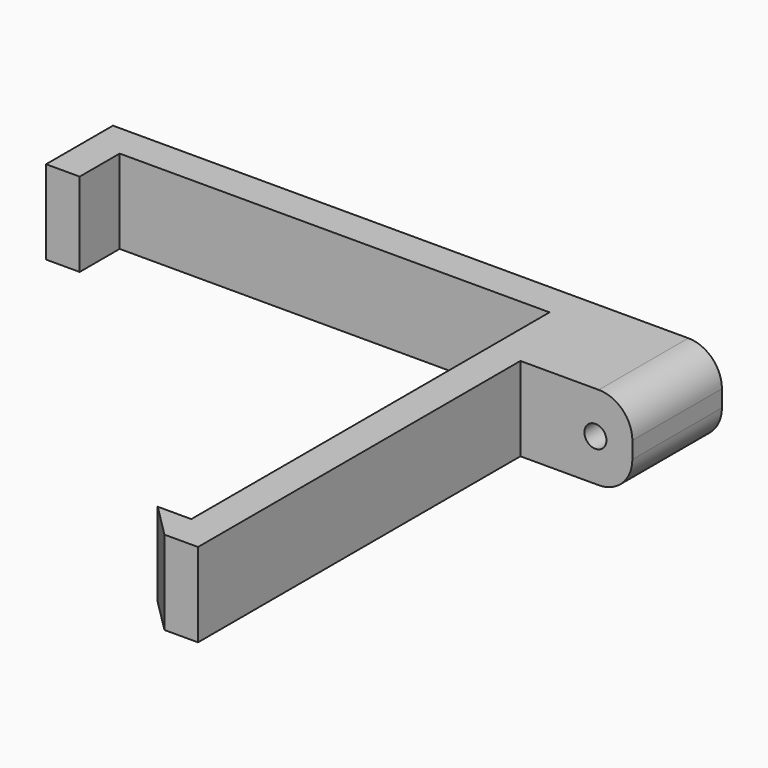
from build123d import *

# Parameters (mm, degrees)
F0_W     = 12.7
F0_H     = 12.7
F1_DEPTH = 4.7625
F2_R     = 3.81
F3_R     = 1.25
F4_DEPTH = 58.421


with BuildPart() as f1:
    # F0 (on Top) → F1 (new body, symmetric)
    with BuildSketch(Plane.XY):
        Polygon((-48.768, 0), (0, 0), (0, -50.8), (3.81, -50.8), (3.81, -8.89), (3.81, 3.81), (-52.578, 3.81), (-52.578, -5.671398), (-48.768, -5.671398), align=None)
        Polygon((3.81, -50.8), (0, -50.8), (-3.81, -50.8), (0, -54.61), (3.81, -54.61), align=None)
        with Locations((10.16, -2.54)):
            Rectangle(F0_W, F0_H)
    extrude(amount=F1_DEPTH, both=True)

    # F2
    f2_edges = [f1.edges().sort_by_distance(p)[0] for p in [
        (16.51, -2.54, -4.7625),
        (16.51, -2.54, 4.7625),
    ]]
    fillet(f2_edges, radius=F2_R)

    # F3 (on face) → F4 (cut, through all)
    with BuildSketch(Plane(origin=(0, 3.81, 0), x_dir=(-1, 0, 0), z_dir=(0, 1, 0))):
        with Locations((-12.318778, 0)):
            Circle(F3_R)
    extrude(amount=-F4_DEPTH, mode=Mode.SUBTRACT)


solid = f1.part
